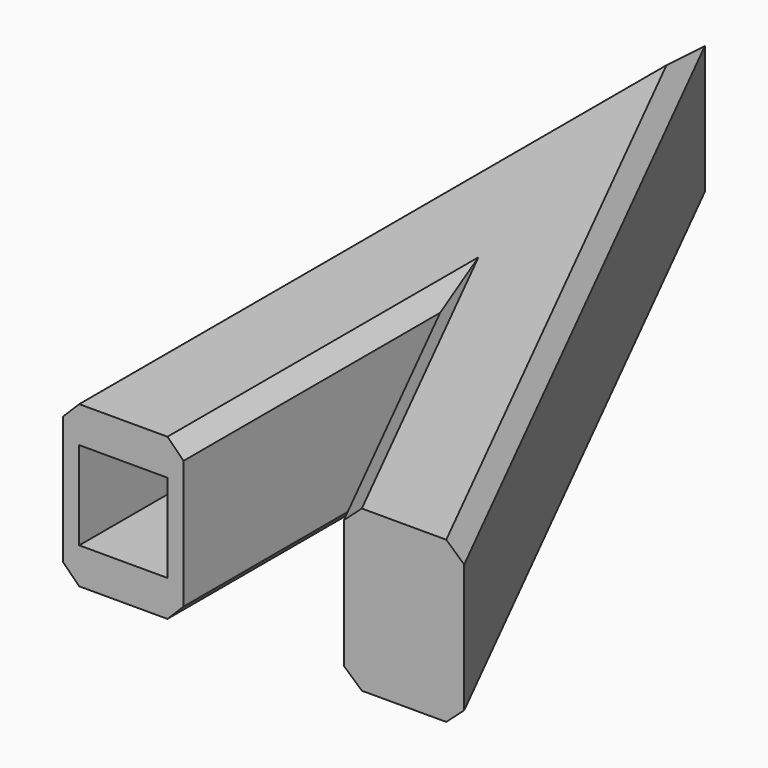
from build123d import *

# Parameters (mm, degrees)
F1_DEPTH = 10
F2_SIZE  = 1
F3_W     = 5.5
F3_H     = 5.5
F4_DEPTH = 10


with BuildPart() as f1:
    # F0 (on Top) → F1 (new body)
    with BuildSketch(Plane.XY):
        Polygon((0, 50), (0, 0), (7.5, 0), (7.5, 20), (17.5, 0), (25, 0), align=None)
    extrude(amount=F1_DEPTH)

    # F2
    f2_edges = [f1.edges().sort_by_distance(p)[0] for p in [
        (12.5, 10, 10),
        (7.5, 10, 10),
        (0, 25, 10),
        (12.5, 25, 10),
        (12.5, 10, 0),
        (7.5, 10, 0),
        (0, 25, 0),
        (12.5, 25, 0),
    ]]
    chamfer(f2_edges, length=F2_SIZE)

    # F3 (on face) → F4 (cut)
    with BuildSketch(Plane.XZ):
        with Locations((3.75, 5)):
            Rectangle(F3_W, F3_H)
    extrude(amount=-F4_DEPTH, mode=Mode.SUBTRACT)


solid = f1.part
